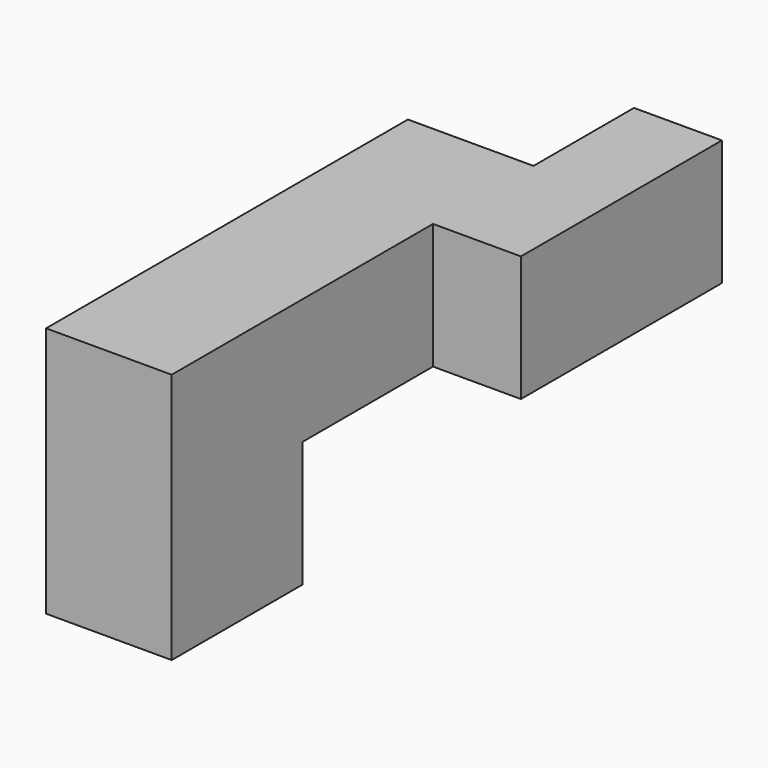
from build123d import *

# Parameters (mm, degrees)
F0_W     = 25.4
F0_H     = 25.4
F1_DEPTH = 17.78
F2_DEPTH = 43.18
F3_W     = 25.4
F3_H     = 25.4
F4_DEPTH = 66.04
F5_W     = 25.4
F5_H     = 33.02
F6_DEPTH = 25.4


with BuildPart() as f1:
    # F0 (on Right) → F1 (new body)
    with BuildSketch(Plane.YZ):
        with Locations((58.3694662571, -26.3017169727)):
            Rectangle(F0_W, F0_H)
    extrude(amount=-F1_DEPTH)

    # F0 (on Right) → F2 (join)
    with BuildSketch(Plane.YZ):
        with Locations((32.9694662571, -26.3017169727)):
            Rectangle(F0_W, F0_H)
    extrude(amount=-F2_DEPTH)

    # F3 (on face) → F4 (join)
    with BuildSketch(Plane.XZ.offset(-20.2694662571)):
        with Locations((-30.48, -26.3017169727)):
            Rectangle(F3_W, F3_H)
    extrude(amount=F4_DEPTH)

    # F5 (on face) → F6 (join)
    with BuildSketch(Plane(origin=(0, 0, -39.0017169727), x_dir=(1, 0, 0), z_dir=(0, 0, -1))):
        with Locations((-30.48, 29.2605337429)):
            Rectangle(F5_W, F5_H)
    extrude(amount=F6_DEPTH)


solid = f1.part
